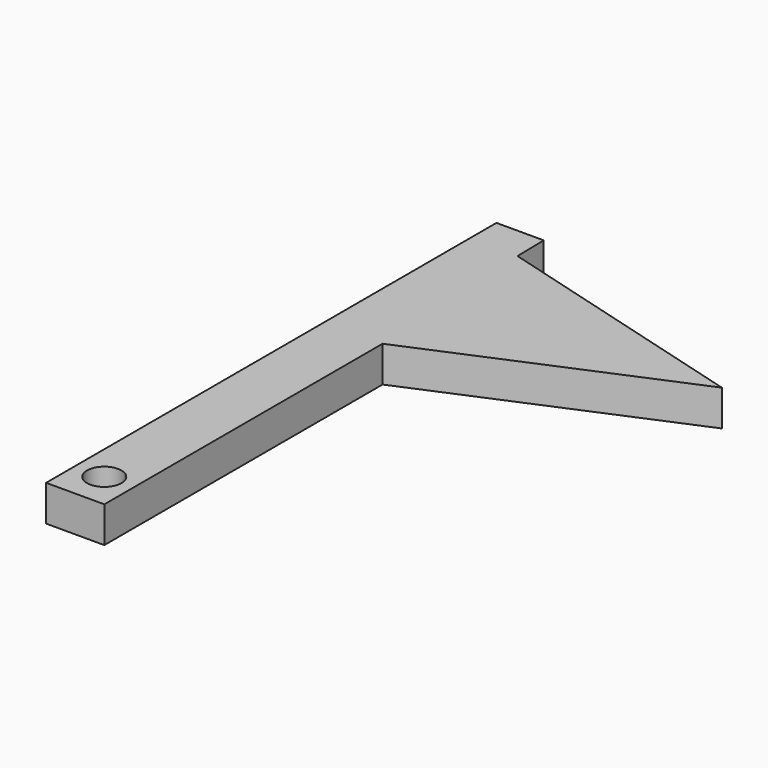
from build123d import *

# Parameters (mm, degrees)
F0_R     = 1.4224
F1_DEPTH = 2.9718


with BuildPart() as f1:
    # F0 (on Top) → F1 (new body)
    with BuildSketch(Plane.XY):
        Polygon((5.551482, -4.382136), (10.369005, -4.382136), (10.369005, 24.381329), (31.321261, 33.274475), (9.518855, 39.400677), (9.457613, 42.173743), (5.551482, 42.173743), (5.551482, 39.400677), align=None)
        with Locations((7.960243, -1.377848)):
            Circle(F0_R, mode=Mode.SUBTRACT)
    extrude(amount=F1_DEPTH)


solid = f1.part
